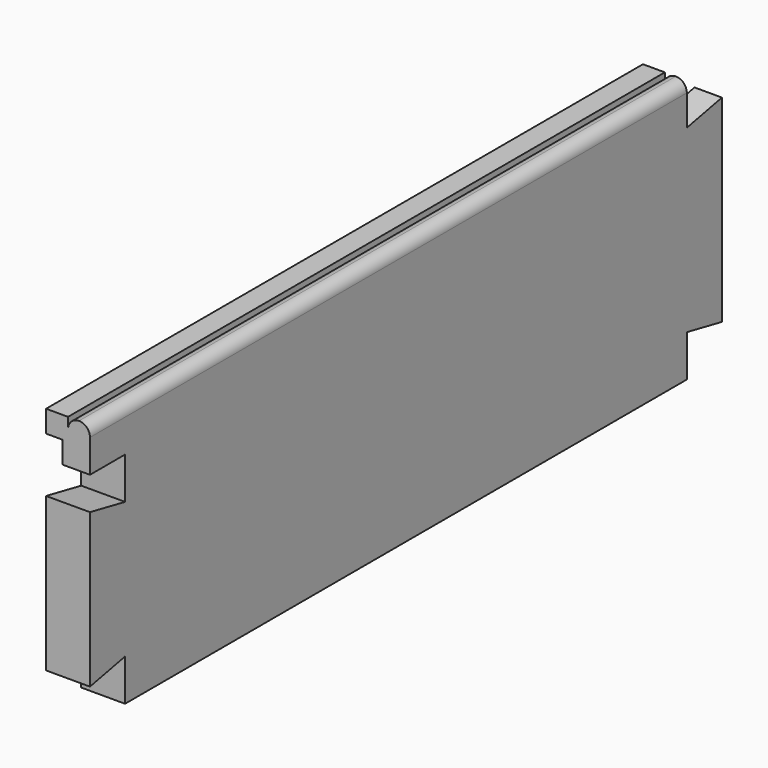
from build123d import *

# Parameters (mm, degrees)
F0_W     = 12.7
F0_H     = 76.2
F1_DEPTH = 114.3
F3_DEPTH = 12.7
F4_W     = 228.6
F4_H     = 6.35
F5_DEPTH = 4.7625
F8_DEPTH = 215.9


with BuildPart() as f1:
    # F0 (on Front) → F1 (new body, symmetric)
    with BuildSketch(Plane.XZ):
        Rectangle(F0_W, F0_H)
    extrude(amount=F1_DEPTH, both=True)

    # F2 (on face) → F3 (cut, through all)
    with BuildSketch(Plane.YZ.offset(6.35)):
        Polygon((-101.6, 25.4), (-114.3, 25.4), (-114.3, 15.875), (-101.6, 13.33729), align=None)
        Polygon((-114.3, -28.575), (-114.3, -38.1), (-101.6, -38.1), (-101.6, -26.03729), align=None)
        Polygon((114.3, 28.575), (114.3, 38.1), (101.6, 38.1), (101.6, 26.03729), align=None)
        Polygon((101.6, -38.1), (114.3, -38.1), (114.3, -28.575), (101.6, -26.03729), align=None)
    extrude(amount=-F3_DEPTH, mode=Mode.SUBTRACT)

    # F4 (on face) → F5 (cut)
    with BuildSketch(Plane(origin=(-6.35, 0, 0), x_dir=(0, -1, 0), z_dir=(-1, 0, 0))):
        with Locations((0, 28.575)):
            Rectangle(F4_W, F4_H)
    extrude(amount=-F5_DEPTH, mode=Mode.SUBTRACT)

    # F7 (on face) → F8 (cut, through all)
    with BuildSketch(Plane.XZ.offset(114.3)):
        with BuildLine():
            ThreePointArc((0, 34.925), (0.929936, 37.170064), (3.175, 38.1))
            Line((3.175, 38.1), (0, 38.1))
            Line((0, 38.1), (0, 34.925))
        make_face()
        with BuildLine():
            ThreePointArc((3.175, 38.1), (5.420064, 37.170064), (6.35, 34.925))
            Line((6.35, 34.925), (6.35, 38.1))
            Line((6.35, 38.1), (3.175, 38.1))
        make_face()
    extrude(amount=-F8_DEPTH, mode=Mode.SUBTRACT)


solid = f1.part
